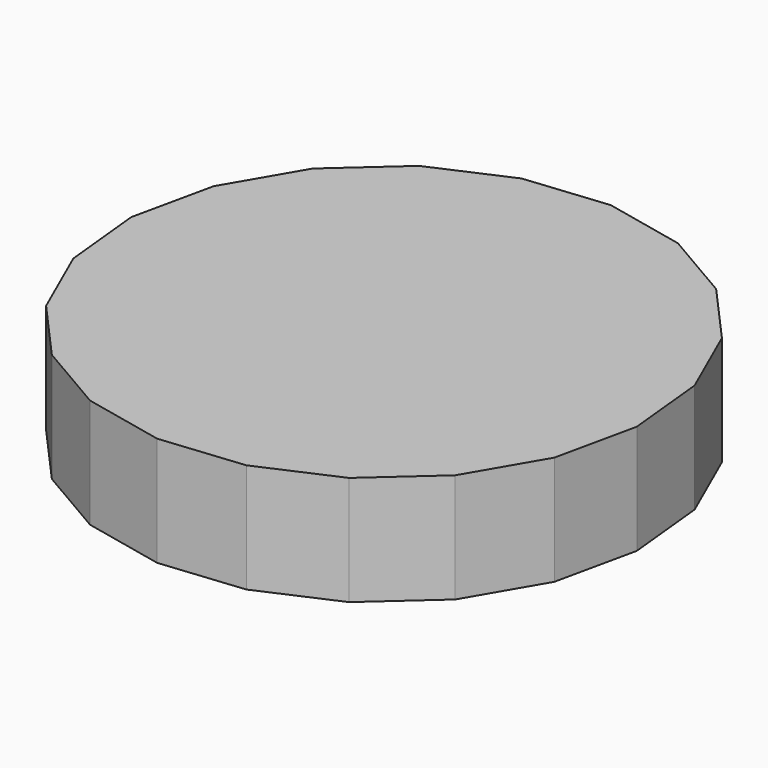
from build123d import *

# Parameters (mm, degrees)
F1_DEPTH = 25.4
F3_DEPTH = 19.304


with BuildPart() as f1:
    # F0 (on Top) → F1 (new body)
    with BuildSketch(Plane.XY):
        Polygon((-47.731171, 38.976648), (-57.439488, 22.319252), (-61.525228, 3.477092), (-59.588449, -15.70543), (-51.818738, -33.350595), (-38.976648, -47.731171), (-22.319252, -57.439488), (-3.477092, -61.525228), (15.70543, -59.588449), (33.350595, -51.818738), (47.731171, -38.976648), (57.439488, -22.319252), (61.525228, -3.477092), (59.588449, 15.70543), (51.818738, 33.350595), (38.976648, 47.731171), (22.319252, 57.439488), (3.477092, 61.525228), (-15.70543, 59.588449), (-33.350595, 51.818738), align=None)
    extrude(amount=F1_DEPTH)

    # F2 (on Top) → F3 (cut)
    with BuildSketch(Plane.XY):
        Polygon((-45.255043, 37.551372), (-54.644115, 21.728899), (-58.684241, 3.779451), (-56.979944, -14.539956), (-49.698054, -31.436091), (-37.551372, -45.255043), (-21.728899, -54.644115), (-3.779451, -58.684241), (14.539956, -56.979944), (31.436091, -49.698054), (45.255043, -37.551372), (54.644115, -21.728899), (58.684241, -3.779451), (56.979944, 14.539956), (49.698054, 31.436091), (37.551372, 45.255043), (21.728899, 54.644115), (3.779451, 58.684241), (-14.539956, 56.979944), (-31.436091, 49.698054), align=None)
    extrude(amount=F3_DEPTH, mode=Mode.SUBTRACT)


solid = f1.part
